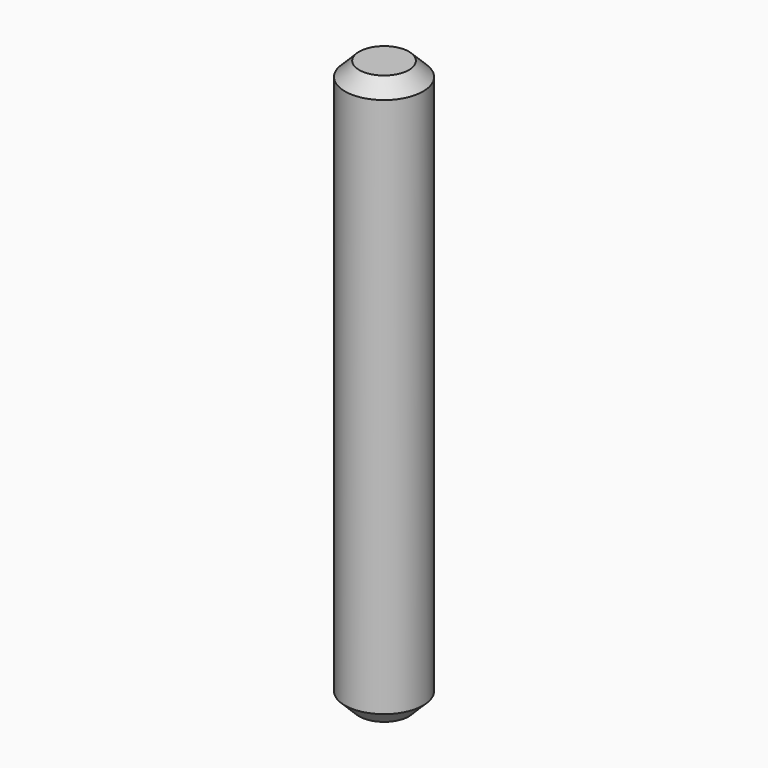
from build123d import *

# Parameters (mm, degrees)
F0_R     = 2.75
F1_DEPTH = 20
F2_SIZE  = 1


with BuildPart() as f1:
    # F0 (on Top) → F1 (new body, symmetric)
    with BuildSketch(Plane.XY):
        Circle(F0_R)
    extrude(amount=F1_DEPTH, both=True)

    # F2
    f2_edges = [f1.edges().sort_by_distance(p)[0] for p in [
        (-2.75, 0, 20),
        (-2.75, 0, -20),
    ]]
    chamfer(f2_edges, length=F2_SIZE)


solid = f1.part
